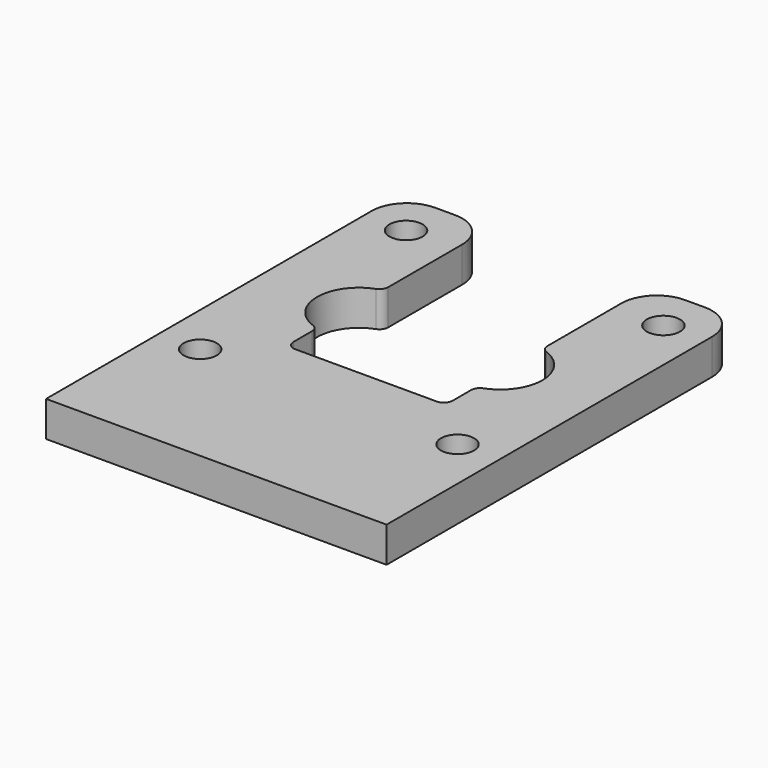
from build123d import *

# Parameters (mm, degrees)
F0_R     = 1.875
F1_DEPTH = 4
F2_R     = 4
F3_R     = 1


with BuildPart() as f1:
    # F0 (on Top) → F1 (new body)
    with BuildSketch(Plane.XY):
        with BuildLine():
            Line((19.25, -24.404246), (19.25, 25.595754))
            Line((19.25, 25.595754), (9, 25.595754))
            Line((9, 25.595754), (9, 10.392248))
            ThreePointArc((9, 10.392248), (12.744, 5.75), (9, 1.107752))
            Line((9, 1.107752), (9, -3.25))
            Line((9, -3.25), (-9, -3.25))
            Line((-9, -3.25), (-9, 1.107752))
            ThreePointArc((-9, 1.107752), (-12.744, 5.75), (-9, 10.392248))
            Line((-9, 10.392248), (-9, 25.595754))
            Line((-9, 25.595754), (-19.25, 25.595754))
            Line((-19.25, 25.595754), (-19.25, -24.404246))
            Line((-19.25, -24.404246), (19.25, -24.404246))
        make_face()
        with Locations((-14.547877, -8.5)):
            Circle(F0_R, mode=Mode.SUBTRACT)
        with Locations((14.547877, -8.5)):
            Circle(F0_R, mode=Mode.SUBTRACT)
        with Locations((-14.547877, 20.595754)):
            Circle(F0_R, mode=Mode.SUBTRACT)
        with Locations((14.547877, 20.595754)):
            Circle(F0_R, mode=Mode.SUBTRACT)
    extrude(amount=F1_DEPTH)

    # F2
    f2_edges = [f1.edges().sort_by_distance(p)[0] for p in [
        (19.25, 25.595754, 2),
        (-19.25, 25.595754, 2),
        (-9, 25.595754, 2),
        (9, 25.595754, 2),
    ]]
    fillet(f2_edges, radius=F2_R)

    # F3
    f3_edges = [f1.edges().sort_by_distance(p)[0] for p in [
        (-9, 10.392248, 2),
        (-9, 1.107752, 2),
        (-9, -3.25, 2),
        (9, -3.25, 2),
        (9, 1.107752, 2),
        (9, 10.392248, 2),
    ]]
    fillet(f3_edges, radius=F3_R)


solid = f1.part
